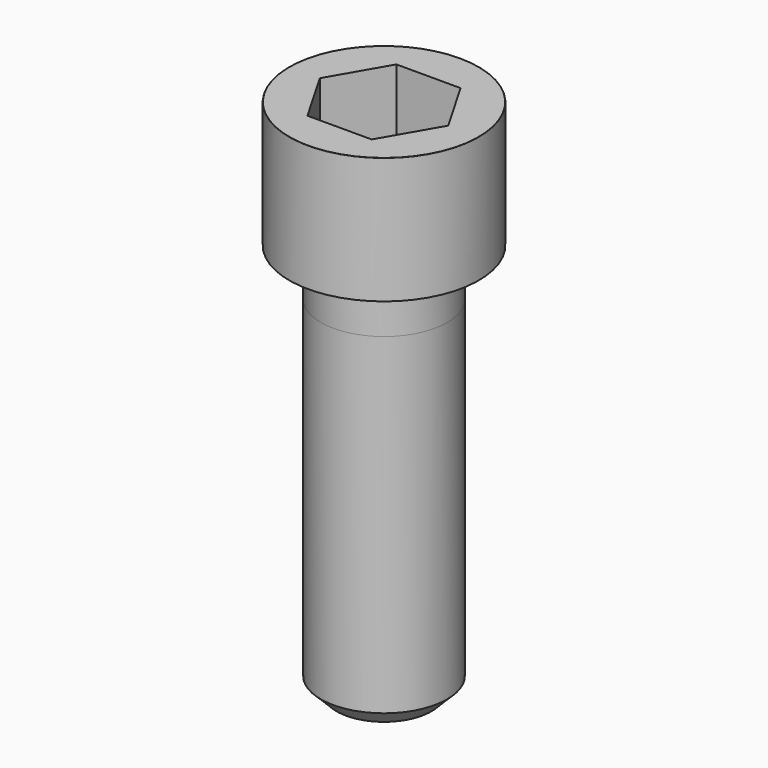
from build123d import *

# Parameters (mm, degrees)
POCKET_DEPTH = 14.08


with BuildPart() as part:
    # Sketch → Revolve (revolve)
    with BuildSketch(Plane.YZ):
        with BuildLine():
            Line((7.999, 0), (12, 0))
            Line((12, 0), (12, 15.97229))
            ThreePointArc((12, 15.97229), (11.991884, 15.991884), (11.97229, 16))
            Line((11.97229, 16), (0, 16))
            Line((0, -50), (0, 16))
            Line((6, -50), (0, -50))
            Line((8, -48), (6, -50))
            Line((8, -6), (8, -48))
            Line((7.999, 0), (8, -6))
        make_face()
    revolve(axis=Axis((0, 0, 0), (0, 0, 1)))

    # Sketch001 → Pocket (cut)
    with BuildSketch(Plane.XY.offset(16)):
        Polygon((8.129092, 0), (4.064546, 7.04), (-4.064546, 7.04), (-8.129092, 0), (-4.064546, -7.04), (4.064546, -7.04), align=None)
    extrude(amount=-POCKET_DEPTH, mode=Mode.SUBTRACT)


solid = part.part
